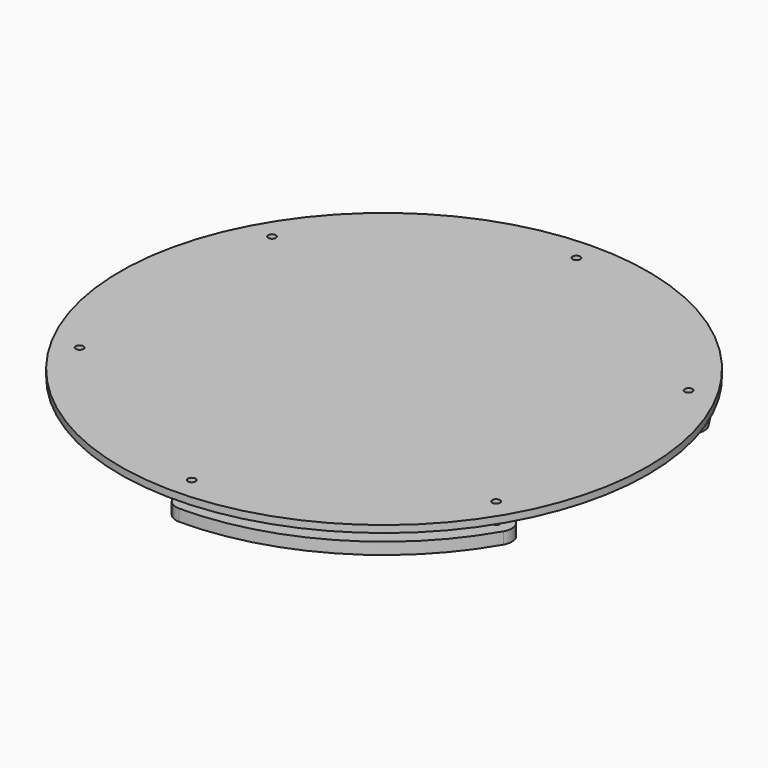
from build123d import *

# Parameters (mm, degrees)
F0_R     = 112.5
F1_DEPTH = 3
F2_D     = 3.3
F2_DEPTH = 15
F2_TIP   = 0.9914200214
F3_R     = 100
F4_DEPTH = 5
F5_R     = 1.65
F6_DEPTH = 5
F8_COUNT = 3


with BuildPart() as f1:
    # F0 (on Top) → F1 (new body)
    with BuildSketch(Plane.XY):
        Circle(F0_R)
    extrude(amount=F1_DEPTH)

    # F2
    with Locations(Plane(origin=(0, 0, 0), x_dir=(1, 0, 0), z_dir=(0, 0, -1))):
        with Locations((0, -102.5), (-88.7676038879, -51.25), (-88.7676038879, 51.25), (0, 102.5), (88.7676038879, 51.25), (88.7676038879, -51.25)):
            Hole(F2_D / 2, depth=F2_DEPTH)
            with Locations((0, 0, -(F2_DEPTH + F2_TIP / 2))):  # 118° drill point
                Cone(0, F2_D / 2, F2_TIP, mode=Mode.SUBTRACT)


with BuildPart() as f4:
    # F3 (on face) → F4 (new body)
    with BuildSketch(Plane.XY):
        Circle(F3_R)
    extrude(amount=-F4_DEPTH)


with BuildPart() as f6:
    # F5 (on face) → F6 (new body)
    with BuildSketch(Plane(origin=(0, 0, -5), x_dir=(1, 0, 0), z_dir=(0, 0, -1))):
        with BuildLine():
            ThreePointArc((0, -95.85), (-3.6308200965, -96.9286765103), (-6.0837513656, -99.8147682927))
            ThreePointArc((-6.0837513656, -99.8147682927), (0, -100), (6.0837513656, -99.8147682927))
            ThreePointArc((6.0837513656, -99.8147682927), (3.6308200965, -96.9286765103), (0, -95.85))
        make_face()
        with BuildLine():
            ThreePointArc((-6.0837513656, -99.8147682927), (-5.5713234897, -106.1308200965), (0, -109.15))
            ThreePointArc((0, -109.15), (4.7022600949, -107.2022600949), (6.65, -102.5))
            ThreePointArc((6.65, -102.5), (6.5068981313, -101.1278568918), (6.0837513656, -99.8147682927))
            ThreePointArc((6.0837513656, -99.8147682927), (0, -100), (-6.0837513656, -99.8147682927))
        make_face()
        with Locations((0, -102.5)):
            Circle(F5_R, mode=Mode.SUBTRACT)
        with BuildLine():
            ThreePointArc((0, -95.85), (3.6308200965, -96.9286765103), (6.0837513656, -99.8147682927))
            ThreePointArc((6.0837513656, -99.8147682927), (50, -86.6025403784), (83.4002493315, -55.1760673792))
            ThreePointArc((83.4002493315, -55.1760673792), (82.1272861649, -51.6087206953), (83.0085349527, -47.925))
            ThreePointArc((83.0085349527, -47.925), (47.925, -83.0085349527), (0, -95.85))
        make_face()
        with BuildLine():
            ThreePointArc((6.65, -102.5), (4.7022600949, -107.2022600949), (0, -109.15))
            ThreePointArc((0, -109.15), (54.575, -94.5266728231), (94.5266728231, -54.575))
            ThreePointArc((94.5266728231, -54.575), (89.1263245832, -57.890317723), (83.4002493315, -55.1760673792))
            ThreePointArc((83.4002493315, -55.1760673792), (50, -86.6025403784), (6.0837513656, -99.8147682927))
            ThreePointArc((6.0837513656, -99.8147682927), (6.5068981313, -101.1278568918), (6.65, -102.5))
        make_face()
        with BuildLine():
            ThreePointArc((83.0085349527, -47.925), (82.1272861649, -51.6087206953), (83.4002493315, -55.1760673792))
            ThreePointArc((83.4002493315, -55.1760673792), (86.6025403784, -50), (89.4840006971, -44.6387009135))
            ThreePointArc((89.4840006971, -44.6387009135), (85.7581062614, -45.319955815), (83.0085349527, -47.925))
        make_face()
        with BuildLine():
            ThreePointArc((83.4002493315, -55.1760673792), (89.1263245832, -57.890317723), (94.5266728231, -54.575))
            ThreePointArc((94.5266728231, -54.575), (95.1910106327, -52.9711466499), (95.4176038879, -51.25))
            ThreePointArc((95.4176038879, -51.25), (93.7166714153, -46.808240145), (89.4840006971, -44.6387009135))
            ThreePointArc((89.4840006971, -44.6387009135), (86.6025403784, -50), (83.4002493315, -55.1760673792))
        make_face()
        with Locations((88.7676038879, -51.25)):
            Circle(F5_R, mode=Mode.SUBTRACT)
    extrude(amount=F6_DEPTH)


with BuildPart() as f8_1:
    # F8: instance of F6
    add(f6.part.rotate(Axis((0, 0, -19.4527152926), (0, 0, -1)), 1 * 360 / F8_COUNT))


with BuildPart() as f8_2:
    # F8: instance of F6
    add(f6.part.rotate(Axis((0, 0, -19.4527152926), (0, 0, -1)), 2 * 360 / F8_COUNT))


solid = Compound([f1.part, f4.part, f6.part, f8_1.part, f8_2.part])
